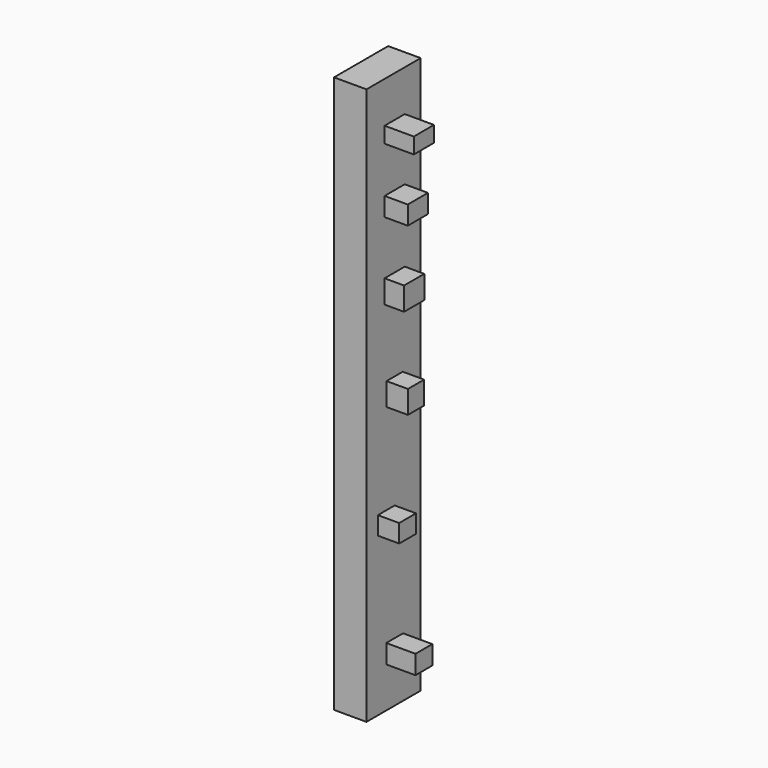
from build123d import *

# Parameters (mm, degrees)
F1_DEPTH = 60
F2_W     = 5.437252
F2_H     = 3.403648
F2_W_2   = 4.52817
F2_H_2   = 4.068502
F3_DEPTH = 6.3
F2_H_3   = 4.993211
F4_DEPTH = 4.2
F2_H_4   = 4.021845
F5_DEPTH = 5
F2_W_3   = 4.367254
F2_H_5   = 4.921976
F6_DEPTH = 4.6
F2_H_6   = 3.894821
F7_DEPTH = 4.6


with BuildPart() as f1:
    # F0 (on Top) → F1 (new body, symmetric)
    with BuildSketch(Plane.XY):
        Polygon((-9.043264, 0), (-9.043264, 7), (-16.043264, 7), (-16.043264, 0), (-16.043264, -7.59036), (-9.043264, -7.59036), align=None)
    extrude(amount=F1_DEPTH, both=True)

    # F2 (on face) → F3 (join)
    with BuildSketch(Plane.YZ.offset(-9.043264)):
        with Locations((0, 49.416557)):
            Rectangle(F2_W, F2_H)
        with Locations((0, -49.225945)):
            Rectangle(F2_W_2, F2_H_2)
    extrude(amount=F3_DEPTH)

    # F2 (on face) → F4 (join)
    with BuildSketch(Plane.YZ.offset(-9.043264)):
        with Locations((0, 19.678933)):
            Rectangle(F2_W, F2_H_3)
    extrude(amount=F4_DEPTH)

    # F2 (on face) → F5 (join)
    with BuildSketch(Plane.YZ.offset(-9.043264)):
        with Locations((0, 35.789437)):
            Rectangle(F2_W, F2_H_4)
    extrude(amount=F5_DEPTH)

    # F2 (on face) → F6 (join)
    with BuildSketch(Plane.YZ.offset(-9.043264)):
        Rectangle(F2_W_3, F2_H_5)
    extrude(amount=F6_DEPTH)

    # F2 (on face) → F7 (join)
    with BuildSketch(Plane.YZ.offset(-9.043264)):
        with Locations((-2.264085, -23.966038)):
            Rectangle(F2_W_2, F2_H_6)
    extrude(amount=F7_DEPTH)


solid = f1.part
